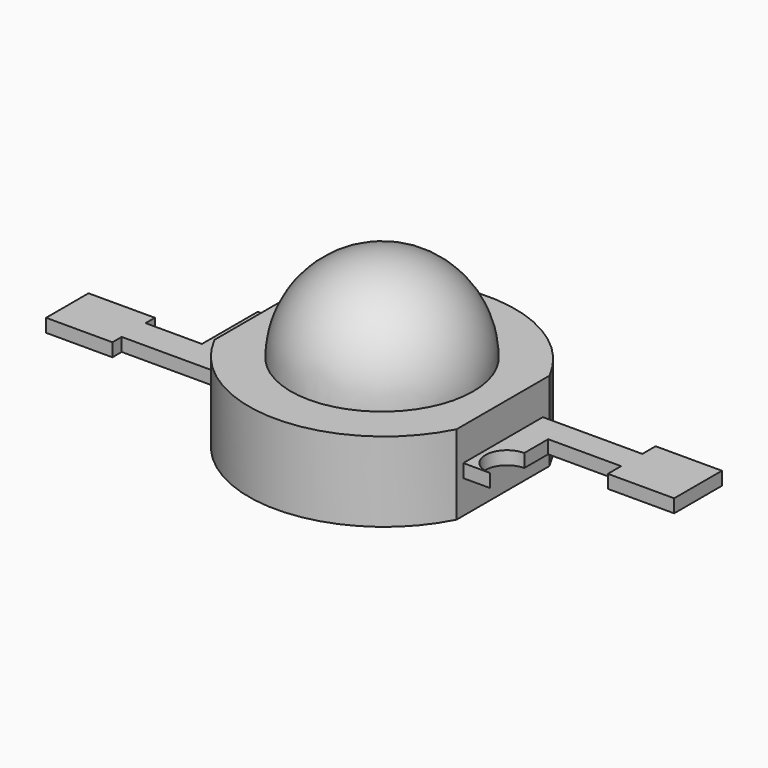
from build123d import *

# Parameters (mm, degrees)
REVOLUTION005_ANGLE     = -180
PAD023_DEPTH            = 0.4
BODY024_PLACEMENT_ANGLE = 180
PAD022_DEPTH            = 2.4


with BuildPart() as light005:
    # Sketch036 (on Face1 of ShapeBinder011) → Revolution005 (revolve)
    with BuildSketch(Plane.XY.offset(2.4)):
        with BuildLine():
            ThreePointArc((-2.75, 0), (0, -2.75), (2.75, 0))
            Line((-2.75, 0), (2.75, 0))
        make_face()
    revolve(axis=Axis((-2.75, 0, 2.4), (1, 0, 0)), revolution_arc=REVOLUTION005_ANGLE)


with BuildPart() as body024:
    # Sketch037 (on Face1 of ShapeBinder012) → Pad023 (new body)
    with BuildSketch(Plane(origin=(0, 0, 0), x_dir=(1, 0, 0), z_dir=(0, 0, -1))):
        with BuildLine():
            Line((3.65, 1.5), (6.65, 1.5))
            Line((6.65, 1.5), (6.65, 2))
            Line((6.65, 2), (8.65, 2))
            Line((8.65, 2), (8.65, 0.2))
            Line((8.65, 0.2), (6.65, 0.2))
            Line((6.65, 0.2), (6.65, 0.7))
            Line((6.65, 0.7), (4.45, 0.7))
            Line((4.45, 0.7), (4.45, -0.2))
            ThreePointArc((4.45, -0.2), (3.8, -0.85), (4.45, -1.5))
            Line((4.45, -1.5), (-6.65, -1.5))
            Line((-6.65, -1.5), (-6.65, -1.85))
            Line((-6.65, -1.85), (-8.65, -1.85))
            Line((-8.65, -1.85), (-8.65, -0.25))
            Line((-8.65, -0.25), (-6.65, -0.25))
            Line((-6.65, -0.25), (-6.65, -0.6))
            Line((-6.65, -0.6), (-4.95, -0.6))
            Line((-4.95, -0.6), (-4.95, 1.5))
            Line((-4.95, 1.5), (3.65, 1.5))
        make_face()
    extrude(amount=-PAD023_DEPTH)


with BuildPart() as body024_1:
    # Body024 placement: moved
    add(body024.part.moved(Location((0, 0, 1.4))).rotate(Axis((0, 0, 1.4), (1, 0, 0)), BODY024_PLACEMENT_ANGLE))


with BuildPart() as led6:
    # Sketch035 → Pad022 (new body)
    with BuildSketch(Plane.XY):
        with BuildLine():
            Line((-3.65, 1.75), (-3.65, -1.75))
            ThreePointArc((-3.65, -1.75), (0, -4), (3.65, -1.75))
            Line((3.65, 1.75), (3.65, -1.75))
            ThreePointArc((3.65, 1.75), (0, 4), (-3.65, 1.75))
        make_face()
    extrude(amount=PAD022_DEPTH)

    # Fusion006: union light005, Body024
    add(light005.part)
    add(body024_1.part)


with BuildPart() as led6_1:
    # Fusion006 placement: moved
    add(led6.part.moved(Location((0, 43, -2.8))))


solid = led6_1.part
